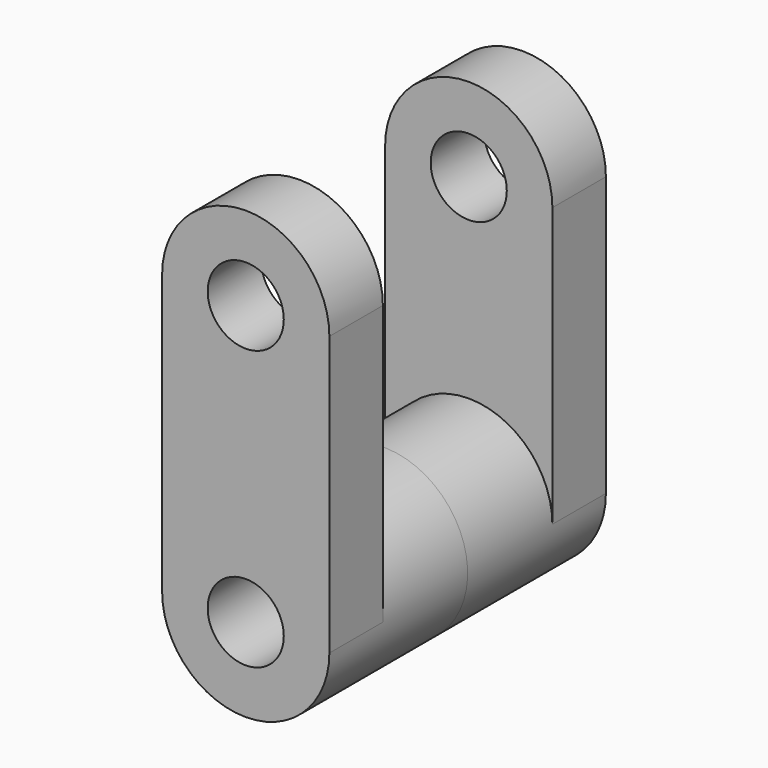
from build123d import *

# Parameters (mm, degrees)
F0_R     = 6.824609
F1_DEPTH = 12
F2_DEPTH = 31


with BuildPart() as f1:
    # F0 (on Front) → F1 (new body)
    with BuildSketch(Plane.XZ):
        with BuildLine():
            ThreePointArc((15, 50), (0, 65), (-15, 50))
            Line((-15, 50), (-15, 0))
            ThreePointArc((-15, 0), (0, 15), (15, 0))
            Line((15, 0), (15, 50))
        make_face()
        with Locations((0, 50)):
            Circle(F0_R, mode=Mode.SUBTRACT)
        with BuildLine():
            ThreePointArc((15, 0), (0, 15), (-15, 0))
            ThreePointArc((-15, 0), (0, -15), (15, 0))
        make_face()
        Circle(F0_R, mode=Mode.SUBTRACT)
    extrude(amount=-F1_DEPTH)

    # F0 (on Front) → F2 (join)
    with BuildSketch(Plane.XZ):
        with BuildLine():
            ThreePointArc((15, 0), (0, 15), (-15, 0))
            ThreePointArc((-15, 0), (0, -15), (15, 0))
        make_face()
        Circle(F0_R, mode=Mode.SUBTRACT)
    extrude(amount=-F2_DEPTH)

    # F3: F1 across face


with BuildPart() as f1_1:
    add(f1.part)
    add(f1.part.mirror(Plane(origin=(0, 31, 0), x_dir=(1, 0, 0), z_dir=(0, 1, 0))))


solid = f1_1.part
